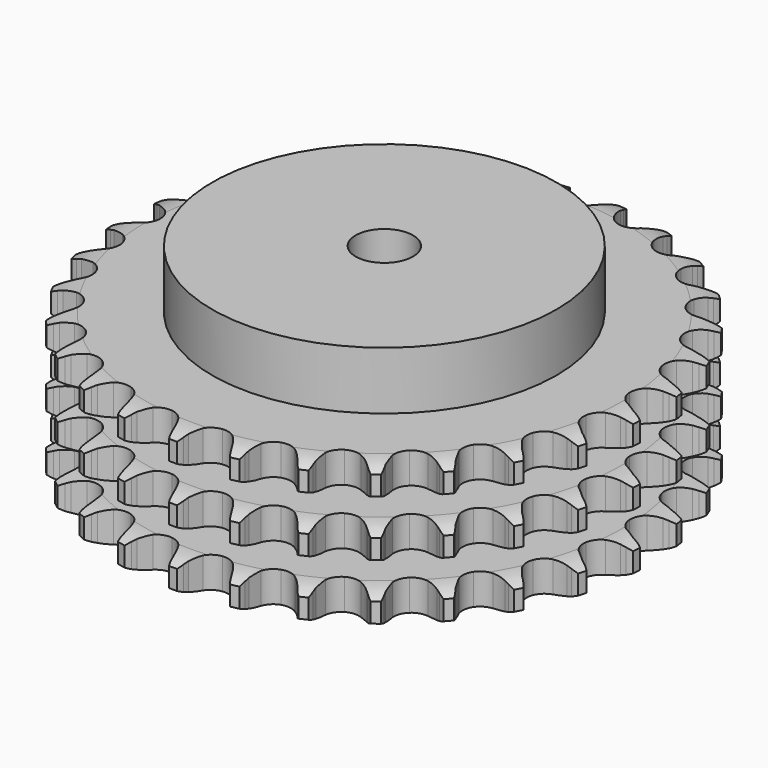
from build123d import *

# Parameters (mm, degrees)
PAD_DEPTH         = 49.8
SKETCH001_R       = 60
PAD001_DEPTH      = 70
SKETCH002_R       = 10
POCKET_DEPTH      = 0.001
POCKET_DEPTH_BACK = 70.001


with BuildPart() as part:
    # Sprocket → Pad (new body)
    with BuildSketch(Plane.XY):
        with BuildLine():
            ThreePointArc((-10.17655, 93.571831), (-8.665121, 91.838888), (-7.596306, 89.802925))
            Line((-7.596306, 89.802925), (-7.007926, 88.270144))
            ThreePointArc((-7.007926, 88.270144), (-6.074148, 86.269221), (-4.869867, 84.418452))
            ThreePointArc((-4.869867, 84.418452), (-2.71998, 82.633691), (0, 81.994084))
            ThreePointArc((0, 81.994084), (2.71998, 82.633691), (4.869867, 84.418452))
            ThreePointArc((4.869867, 84.418452), (6.074148, 86.269221), (7.007926, 88.270144))
            Line((7.007926, 88.270144), (7.596306, 89.802925))
            ThreePointArc((7.596306, 89.802925), (8.665121, 91.838888), (10.17655, 93.571831))
            ThreePointArc((10.17655, 93.571831), (11.280111, 91.554491), (11.886266, 89.336364))
            Line((11.886266, 89.336364), (12.131387, 87.712934))
            ThreePointArc((12.131387, 87.712934), (12.613195, 85.558057), (13.391459, 83.491673))
            ThreePointArc((13.391459, 83.491673), (15.107412, 81.286476), (17.626304, 80.077108))
            ThreePointArc((17.626304, 80.077108), (20.420189, 80.117046), (22.903484, 81.397918))
            Line((22.903484, 81.397918), (25.819557, 84.69994))
            ThreePointArc((25.819557, 84.69994), (26.253761, 85.396953), (26.723683, 86.070402))
            ThreePointArc((26.723683, 86.070402), (28.205182, 87.829001), (30.053806, 89.196517))
            ThreePointArc((30.053806, 89.196517), (30.697897, 86.989107), (30.813049, 84.692534))
            Line((30.813049, 84.692534), (30.70345, 83.054365))
            ThreePointArc((30.70345, 83.054365), (30.710759, 80.846293), (31.026616, 78.660916))
            ThreePointArc((31.026616, 78.660916), (32.228399, 76.138397), (34.428422, 74.415815))
            ThreePointArc((34.428422, 74.415815), (37.165573, 73.854216), (39.86616, 74.571308))
            Line((39.86616, 74.571308), (43.423893, 77.169261))
            ThreePointArc((43.423893, 77.169261), (43.997783, 77.756637), (44.60149, 78.313322))
            ThreePointArc((44.60149, 78.313322), (46.426399, 79.712327), (48.525779, 80.650472))
            ThreePointArc((48.525779, 80.650472), (48.680284, 78.35621), (48.299048, 76.088575))
            Line((48.299048, 76.088575), (47.839853, 74.512266))
            ThreePointArc((47.839853, 74.512266), (47.372321, 72.354246), (47.211003, 70.152063))
            ThreePointArc((47.211003, 70.152063), (47.842422, 67.43017), (49.620706, 65.274922))
            ThreePointArc((49.620706, 65.274922), (52.173136, 64.138046), (54.964738, 64.257826))
            Line((54.964738, 64.257826), (58.997777, 66.030233))
            ThreePointArc((58.997777, 66.030233), (59.684518, 66.480508), (60.393782, 66.894398))
            ThreePointArc((60.393782, 66.894398), (62.47677, 67.868394), (64.72874, 68.333301))
            ThreePointArc((64.72874, 68.333301), (64.386435, 66.059463), (63.526638, 63.926799))
            Line((63.526638, 63.926799), (62.739319, 62.486056))
            ThreePointArc((62.739319, 62.486056), (61.818807, 60.478995), (61.187856, 58.362976))
            ThreePointArc((61.187856, 58.362976), (61.219386, 55.568984), (62.49278, 53.081846))
            ThreePointArc((62.49278, 53.081846), (64.741141, 51.422852), (67.493226, 50.93972))
            Line((67.493226, 50.93972), (71.81299, 51.803705))
            ThreePointArc((71.81299, 51.803705), (72.580471, 52.095823), (73.362127, 52.347566))
            ThreePointArc((73.362127, 52.347566), (75.605796, 52.85101), (77.905058, 52.82094))
            ThreePointArc((77.905058, 52.82094), (77.081948, 50.673849), (75.783792, 48.775876))
            Line((75.783792, 48.775876), (74.705164, 47.538068))
            ThreePointArc((74.705164, 47.538068), (73.374714, 45.775814), (72.303632, 43.844902))
            ThreePointArc((72.303632, 43.844902), (71.733799, 41.109453), (72.442761, 38.406721))
            ThreePointArc((72.442761, 38.406721), (74.281923, 36.303183), (76.865806, 35.239729))
            Line((76.865806, 35.239729), (81.270307, 35.154893))
            ThreePointArc((81.270307, 35.154893), (82.082642, 35.275196), (82.90014, 35.35302))
            ThreePointArc((82.90014, 35.35302), (85.19958, 35.362371), (87.438622, 34.838731))
            ThreePointArc((87.438622, 34.838731), (86.173194, 32.918783), (84.497381, 31.344248))
            Line((84.497381, 31.344248), (83.177878, 30.367252))
            ThreePointArc((83.177878, 30.367252), (81.499701, 28.932206), (80.038571, 27.276689))
            ThreePointArc((80.038571, 27.276689), (78.89402, 24.727691), (79.005399, 21.935741))
            ThreePointArc((79.005399, 21.935741), (80.349364, 19.486017), (82.644227, 17.891967))
            Line((82.644227, 17.891967), (86.927516, 16.862277))
            ThreePointArc((86.927516, 16.862277), (87.74672, 16.80514), (88.561835, 16.705407))
            ThreePointArc((88.561835, 16.705407), (90.809525, 16.220228), (92.883653, 15.227502))
            ThreePointArc((92.883653, 15.227502), (91.235078, 13.62447), (89.259966, 12.446998))
            Line((89.259966, 12.446998), (87.761287, 11.776498))
            ThreePointArc((87.761287, 11.776498), (85.813852, 10.735761), (84.030996, 9.433048))
            ThreePointArc((84.030996, 9.433048), (82.365244, 7.189689), (81.873833, 4.43907))
            ThreePointArc((81.873833, 4.43907), (82.659758, 1.757707), (84.558295, -0.292403))
            Line((84.558295, -0.292403), (88.52009, -2.218799))
            ThreePointArc((88.52009, -2.218799), (89.307858, -2.450706), (90.082477, -2.723333))
            ThreePointArc((90.082477, -2.723333), (92.173319, -3.680356), (93.985548, -5.095748))
            ThreePointArc((93.985548, -5.095748), (92.030911, -6.306907), (89.848854, -7.03226))
            Line((89.848854, -7.03226), (88.241076, -7.364912))
            ThreePointArc((88.241076, -7.364912), (86.115443, -7.962677), (84.094224, -8.851671))
            ThreePointArc((84.094224, -8.851671), (81.985161, -10.684495), (80.913937, -13.265167))
            ThreePointArc((80.913937, -13.265167), (81.105074, -16.052792), (82.518511, -18.4631))
            Line((82.518511, -18.4631), (85.973563, -21.196128))
            ThreePointArc((85.973563, -21.196128), (86.693061, -21.591959), (87.390963, -22.024733))
            ThreePointArc((87.390963, -22.024733), (89.22719, -23.40885), (90.692782, -25.180727))
            ThreePointArc((90.692782, -25.180727), (88.523481, -25.943381), (86.23651, -26.182698))
            Line((86.23651, -26.182698), (84.59481, -26.161948))
            ThreePointArc((84.59481, -26.161948), (82.390372, -26.288789), (80.225301, -26.722497))
            ThreePointArc((80.225301, -26.722497), (77.771543, -28.059084), (76.170595, -30.349139))
            ThreePointArc((76.170595, -30.349139), (75.758006, -33.11268), (76.620253, -35.770484))
            Line((76.620253, -35.770484), (79.407008, -39.182349))
            ThreePointArc((79.407008, -39.182349), (80.024592, -39.723597), (80.613144, -40.296281))
            ThreePointArc((80.613144, -40.296281), (82.108897, -42.042773), (83.159324, -44.088283))
            ThreePointArc((83.159324, -44.088283), (80.876791, -44.366771), (78.591842, -44.108861))
            Line((78.591842, -44.108861), (76.992985, -43.735679))
            ThreePointArc((76.992985, -43.735679), (74.812818, -43.385666), (72.605131, -43.343808))
            ThreePointArc((72.605131, -43.343808), (69.921414, -44.121661), (67.865601, -46.014019))
            ThreePointArc((67.865601, -46.014019), (66.868579, -48.624256), (67.139317, -51.405279))
            Line((67.139317, -51.405279), (69.127469, -55.336447))
            ThreePointArc((69.127469, -55.336447), (69.614263, -55.997803), (70.065945, -56.683619))
            ThreePointArc((70.065945, -56.683619), (71.151283, -58.710822), (71.737427, -60.93432))
            ThreePointArc((71.737427, -60.93432), (69.448393, -60.715619), (67.272307, -59.972543))
            Line((67.272307, -59.972543), (65.791053, -59.264379))
            ThreePointArc((65.791053, -59.264379), (63.7371, -58.453878), (61.590026, -57.938411))
            ThreePointArc((61.590026, -57.938411), (58.801838, -58.121158), (56.387287, -59.527335))
            ThreePointArc((56.387287, -59.527335), (54.852451, -61.862216), (54.519022, -64.636421))
            Line((54.519022, -64.636421), (55.615607, -68.903074))
            ThreePointArc((55.615607, -68.903074), (55.948848, -69.653614), (56.242539, -70.420495))
            ThreePointArc((56.242539, -70.420495), (56.866715, -72.633618), (56.961168, -74.931136))
            ThreePointArc((56.961168, -74.931136), (54.772664, -74.225474), (52.807194, -73.031976))
            Line((52.807194, -73.031976), (51.512805, -72.021943))
            ThreePointArc((51.512805, -72.021943), (49.681107, -70.788851), (47.69504, -69.823878))
            ThreePointArc((47.69504, -69.823878), (44.932753, -69.402975), (42.272366, -70.257219))
            ThreePointArc((42.272366, -70.257219), (40.271483, -72.207567), (39.349478, -74.845236))
            Line((39.349478, -74.845236), (39.503221, -79.24787))
            ThreePointArc((39.503221, -79.24787), (39.667327, -80.0525), (39.789295, -80.864586))
            ThreePointArc((39.789295, -80.864586), (39.923122, -83.160147), (39.521469, -85.424255))
            ThreePointArc((39.521469, -85.424255), (37.535827, -84.264627), (35.872875, -82.676515))
            Line((35.872875, -82.676515), (34.825876, -81.41184))
            ThreePointArc((34.825876, -81.41184), (33.30208, -79.813816), (31.569886, -78.444458))
            ThreePointArc((31.569886, -78.444458), (28.962662, -77.439585), (26.180837, -77.701954))
            ThreePointArc((26.180837, -77.701954), (23.807466, -79.176573), (22.339996, -81.55437))
            Line((22.339996, -81.55437), (21.543708, -85.887124))
            ThreePointArc((21.543708, -85.887124), (21.531005, -86.70822), (21.475548, -87.527539))
            ThreePointArc((21.475548, -87.527539), (21.112768, -89.7982), (20.233789, -91.923031))
            ThreePointArc((20.233789, -91.923031), (18.543856, -90.36366), (17.26118, -88.455192))
            Line((17.26118, -88.455192), (16.510527, -86.995011))
            ThreePointArc((16.510527, -86.995011), (15.365884, -85.106776), (13.96856, -83.397062))
            ThreePointArc((13.96856, -83.397062), (11.638309, -81.855207), (8.86512, -81.513431))
            ThreePointArc((8.86512, -81.513431), (6.230238, -82.44337), (4.28592, -84.450113))
            Line((4.28592, -84.450113), (2.576836, -88.510391))
            ThreePointArc((2.576836, -88.510391), (2.387918, -89.309559), (2.157628, -90.097802))
            ThreePointArc((2.157628, -90.097802), (1.315204, -92.237389), (0, -94.123588))
            ThreePointArc((0, -94.123588), (-1.315204, -92.237389), (-2.157628, -90.097802))
            Line((-2.157628, -90.097802), (-2.576836, -88.510391))
            ThreePointArc((-2.576836, -88.510391), (-3.288803, -86.420238), (-4.28592, -84.450113))
            ThreePointArc((-4.28592, -84.450113), (-6.230238, -82.44337), (-8.86512, -81.513431))
            ThreePointArc((-8.86512, -81.513431), (-11.638309, -81.855207), (-13.96856, -83.397062))
            Line((-13.96856, -83.397062), (-16.510527, -86.995011))
            ThreePointArc((-16.510527, -86.995011), (-16.866825, -87.734883), (-17.26118, -88.455192))
            ThreePointArc((-17.26118, -88.455192), (-18.543856, -90.36366), (-20.233789, -91.923031))
            ThreePointArc((-20.233789, -91.923031), (-21.112768, -89.7982), (-21.475548, -87.527539))
            Line((-21.475548, -87.527539), (-21.543708, -85.887124))
            ThreePointArc((-21.543708, -85.887124), (-21.789709, -83.692786), (-22.339996, -81.55437))
            ThreePointArc((-22.339996, -81.55437), (-23.807466, -79.176573), (-26.180837, -77.701954))
            ThreePointArc((-26.180837, -77.701954), (-28.962662, -77.439585), (-31.569886, -78.444458))
            Line((-31.569886, -78.444458), (-34.825876, -81.41184))
            ThreePointArc((-34.825876, -81.41184), (-35.332895, -82.057822), (-35.872875, -82.676515))
            ThreePointArc((-35.872875, -82.676515), (-37.535827, -84.264627), (-39.521469, -85.424255))
            ThreePointArc((-39.521469, -85.424255), (-39.923122, -83.160147), (-39.789295, -80.864586))
            Line((-39.789295, -80.864586), (-39.503221, -79.24787))
            ThreePointArc((-39.503221, -79.24787), (-39.271753, -77.051951), (-39.349478, -74.845236))
            ThreePointArc((-39.349478, -74.845236), (-40.271483, -72.207567), (-42.272366, -70.257219))
            ThreePointArc((-42.272366, -70.257219), (-44.932753, -69.402975), (-47.69504, -69.823878))
            Line((-47.69504, -69.823878), (-51.512805, -72.021943))
            ThreePointArc((-51.512805, -72.021943), (-52.146837, -72.543827), (-52.807194, -73.031976))
            ThreePointArc((-52.807194, -73.031976), (-54.772664, -74.225474), (-56.961168, -74.931136))
            ThreePointArc((-56.961168, -74.931136), (-56.866715, -72.633618), (-56.242539, -70.420495))
            Line((-56.242539, -70.420495), (-55.615607, -68.903074))
            ThreePointArc((-55.615607, -68.903074), (-54.917493, -66.808254), (-54.519022, -64.636421))
            ThreePointArc((-54.519022, -64.636421), (-54.852451, -61.862216), (-56.387287, -59.527335))
            ThreePointArc((-56.387287, -59.527335), (-58.801838, -58.121158), (-61.590026, -57.938411))
            Line((-61.590026, -57.938411), (-65.791053, -59.264379))
            ThreePointArc((-65.791053, -59.264379), (-66.522452, -59.637764), (-67.272307, -59.972543))
            ThreePointArc((-67.272307, -59.972543), (-69.448393, -60.715619), (-71.737427, -60.93432))
            ThreePointArc((-71.737427, -60.93432), (-71.151283, -58.710822), (-70.065945, -56.683619))
            Line((-70.065945, -56.683619), (-69.127469, -55.336447))
            ThreePointArc((-69.127469, -55.336447), (-67.995352, -53.440676), (-67.139317, -51.405279))
            ThreePointArc((-67.139317, -51.405279), (-66.868579, -48.624256), (-67.865601, -46.014019))
            ThreePointArc((-67.865601, -46.014019), (-69.921414, -44.121661), (-72.605131, -43.343808))
            Line((-72.605131, -43.343808), (-76.992985, -43.735679))
            ThreePointArc((-76.992985, -43.735679), (-77.78755, -43.943106), (-78.591842, -44.108861))
            ThreePointArc((-78.591842, -44.108861), (-80.876791, -44.366771), (-83.159324, -44.088283))
            ThreePointArc((-83.159324, -44.088283), (-82.108897, -42.042773), (-80.613144, -40.296281))
            Line((-80.613144, -40.296281), (-79.407008, -39.182349))
            ThreePointArc((-79.407008, -39.182349), (-77.893824, -37.574272), (-76.620253, -35.770484))
            ThreePointArc((-76.620253, -35.770484), (-75.758006, -33.11268), (-76.170595, -30.349139))
            ThreePointArc((-76.170595, -30.349139), (-77.771543, -28.059084), (-80.225301, -26.722497))
            Line((-80.225301, -26.722497), (-84.59481, -26.161948))
            ThreePointArc((-84.59481, -26.161948), (-85.415389, -26.193717), (-86.23651, -26.182698))
            ThreePointArc((-86.23651, -26.182698), (-88.523481, -25.943381), (-90.692782, -25.180727))
            ThreePointArc((-90.692782, -25.180727), (-89.22719, -23.40885), (-87.390963, -22.024733))
            Line((-87.390963, -22.024733), (-85.973563, -21.196128))
            ThreePointArc((-85.973563, -21.196128), (-84.150068, -19.950937), (-82.518511, -18.4631))
            ThreePointArc((-82.518511, -18.4631), (-81.105074, -16.052792), (-80.913937, -13.265167))
            ThreePointArc((-80.913937, -13.265167), (-81.985161, -10.684495), (-84.094224, -8.851671))
            Line((-84.094224, -8.851671), (-88.241076, -7.364912))
            ThreePointArc((-88.241076, -7.364912), (-89.0493, -7.219538), (-89.848854, -7.03226))
            ThreePointArc((-89.848854, -7.03226), (-92.030911, -6.306907), (-93.985548, -5.095748))
            ThreePointArc((-93.985548, -5.095748), (-92.173319, -3.680356), (-90.082477, -2.723333))
            Line((-90.082477, -2.723333), (-88.52009, -2.218799))
            ThreePointArc((-88.52009, -2.218799), (-86.471548, -1.394718), (-84.558295, -0.292403))
            ThreePointArc((-84.558295, -0.292403), (-82.659758, 1.757707), (-81.873833, 4.43907))
            ThreePointArc((-81.873833, 4.43907), (-82.365244, 7.189689), (-84.030996, 9.433048))
            Line((-84.030996, 9.433048), (-87.761287, 11.776498))
            ThreePointArc((-87.761287, 11.776498), (-88.519364, 12.092218), (-89.259966, 12.446998))
            ThreePointArc((-89.259966, 12.446998), (-91.235078, 13.62447), (-92.883653, 15.227502))
            ThreePointArc((-92.883653, 15.227502), (-90.809525, 16.220228), (-88.561835, 16.705407))
            Line((-88.561835, 16.705407), (-86.927516, 16.862277))
            ThreePointArc((-86.927516, 16.862277), (-84.749714, 17.226716), (-82.644227, 17.891967))
            ThreePointArc((-82.644227, 17.891967), (-80.349364, 19.486017), (-79.005399, 21.935741))
            ThreePointArc((-79.005399, 21.935741), (-78.89402, 24.727691), (-80.038571, 27.276689))
            Line((-80.038571, 27.276689), (-83.177878, 30.367252))
            ThreePointArc((-83.177878, 30.367252), (-83.850361, 30.838555), (-84.497381, 31.344248))
            ThreePointArc((-84.497381, 31.344248), (-86.173194, 32.918783), (-87.438622, 34.838731))
            ThreePointArc((-87.438622, 34.838731), (-85.19958, 35.362371), (-82.90014, 35.35302))
            Line((-82.90014, 35.35302), (-81.270307, 35.154893))
            ThreePointArc((-81.270307, 35.154893), (-79.065078, 35.042649), (-76.865806, 35.239729))
            ThreePointArc((-76.865806, 35.239729), (-74.281923, 36.303183), (-72.442761, 38.406721))
            ThreePointArc((-72.442761, 38.406721), (-71.733799, 41.109453), (-72.303632, 43.844902))
            Line((-72.303632, 43.844902), (-74.705164, 47.538068))
            ThreePointArc((-74.705164, 47.538068), (-75.260609, 48.142916), (-75.783792, 48.775876))
            ThreePointArc((-75.783792, 48.775876), (-77.081948, 50.673849), (-77.905058, 52.82094))
            ThreePointArc((-77.905058, 52.82094), (-75.605796, 52.85101), (-73.362127, 52.347566))
            Line((-73.362127, 52.347566), (-71.81299, 51.803705))
            ThreePointArc((-71.81299, 51.803705), (-69.683447, 51.220026), (-67.493226, 50.93972))
            ThreePointArc((-67.493226, 50.93972), (-64.741141, 51.422852), (-62.49278, 53.081846))
            ThreePointArc((-62.49278, 53.081846), (-61.219386, 55.568984), (-61.187856, 58.362976))
            Line((-61.187856, 58.362976), (-62.739319, 62.486056))
            ThreePointArc((-62.739319, 62.486056), (-63.151753, 63.196167), (-63.526638, 63.926799))
            ThreePointArc((-63.526638, 63.926799), (-64.386435, 66.059463), (-64.72874, 68.333301))
            ThreePointArc((-64.72874, 68.333301), (-62.47677, 67.868394), (-60.393782, 66.894398))
            Line((-60.393782, 66.894398), (-58.997777, 66.030233))
            ThreePointArc((-58.997777, 66.030233), (-57.043495, 65.002411), (-54.964738, 64.257826))
            ThreePointArc((-54.964738, 64.257826), (-52.173136, 64.138046), (-49.620706, 65.274922))
            ThreePointArc((-49.620706, 65.274922), (-47.842422, 67.43017), (-47.211003, 70.152063))
            Line((-47.211003, 70.152063), (-47.839853, 74.512266))
            ThreePointArc((-47.839853, 74.512266), (-48.089993, 75.294436), (-48.299048, 76.088575))
            ThreePointArc((-48.299048, 76.088575), (-48.680284, 78.35621), (-48.525779, 80.650472))
            ThreePointArc((-48.525779, 80.650472), (-46.426399, 79.712327), (-44.60149, 78.313322))
            Line((-44.60149, 78.313322), (-43.423893, 77.169261))
            ThreePointArc((-43.423893, 77.169261), (-41.736253, 75.745356), (-39.86616, 74.571308))
            ThreePointArc((-39.86616, 74.571308), (-37.165573, 73.854216), (-34.428422, 74.415815))
            ThreePointArc((-34.428422, 74.415815), (-32.228399, 76.138397), (-31.026616, 78.660916))
            Line((-31.026616, 78.660916), (-30.70345, 83.054365))
            ThreePointArc((-30.70345, 83.054365), (-30.779597, 83.872021), (-30.813049, 84.692534))
            ThreePointArc((-30.813049, 84.692534), (-30.697897, 86.989107), (-30.053806, 89.196517))
            ThreePointArc((-30.053806, 89.196517), (-28.205182, 87.829001), (-26.723683, 86.070402))
            Line((-26.723683, 86.070402), (-25.819557, 84.69994))
            ThreePointArc((-25.819557, 84.69994), (-24.47747, 82.946532), (-22.903484, 81.397918))
            ThreePointArc((-22.903484, 81.397918), (-20.420189, 80.117046), (-17.626304, 80.077108))
            ThreePointArc((-17.626304, 80.077108), (-15.107412, 81.286476), (-13.391459, 83.491673))
            Line((-13.391459, 83.491673), (-12.131387, 87.712934))
            ThreePointArc((-12.131387, 87.712934), (-12.029982, 88.527843), (-11.886266, 89.336364))
            ThreePointArc((-11.886266, 89.336364), (-11.280111, 91.554491), (-10.17655, 93.571831))
        make_face()
    extrude(amount=PAD_DEPTH)

    # Sketch → Groove (revolve, cut)
    with BuildSketch(Plane.XZ):
        with BuildLine():
            ThreePointArc((83.564719, 0), (87.923618, 0.506758), (92.05, 2))
            Line((92.05, 2), (92.05, 8.8))
            ThreePointArc((92.05, 8.8), (87.923618, 10.293242), (83.564719, 10.8))
            Line((60, 10.8), (83.564719, 10.8))
            Line((60, 10.8), (60, 19.5))
            Line((60, 19.5), (83.564719, 19.5))
            ThreePointArc((83.564719, 19.5), (87.923618, 20.006758), (92.05, 21.5))
            Line((92.05, 28.3), (92.05, 21.5))
            ThreePointArc((92.05, 28.3), (87.923618, 29.793242), (83.564719, 30.3))
            Line((60, 30.3), (83.564719, 30.3))
            Line((60, 39), (60, 30.3))
            Line((83.564719, 39), (60, 39))
            ThreePointArc((83.564719, 39), (87.923618, 39.506758), (92.05, 41))
            Line((92.05, 41), (92.05, 47.8))
            ThreePointArc((92.05, 47.8), (87.923618, 49.293242), (83.564719, 49.8))
            Line((83.564719, 49.8), (102.05, 49.8))
            Line((102.05, 49.8), (102.05, 0))
            Line((83.564719, 0), (102.05, 0))
        make_face()
    revolve(axis=Axis((0, 0, 0), (0, 0, 1)), mode=Mode.SUBTRACT)

    # Sketch001 → Pad001 (join)
    with BuildSketch(Plane.XY):
        Circle(SKETCH001_R)
    extrude(amount=PAD001_DEPTH)

    # Sketch002 → Pocket (cut, two sides)
    with BuildSketch(Plane.XY) as pocket_sk:
        Circle(SKETCH002_R)
    extrude(amount=-POCKET_DEPTH, mode=Mode.SUBTRACT)
    extrude(pocket_sk.sketch, amount=POCKET_DEPTH_BACK, mode=Mode.SUBTRACT)


solid = part.part
